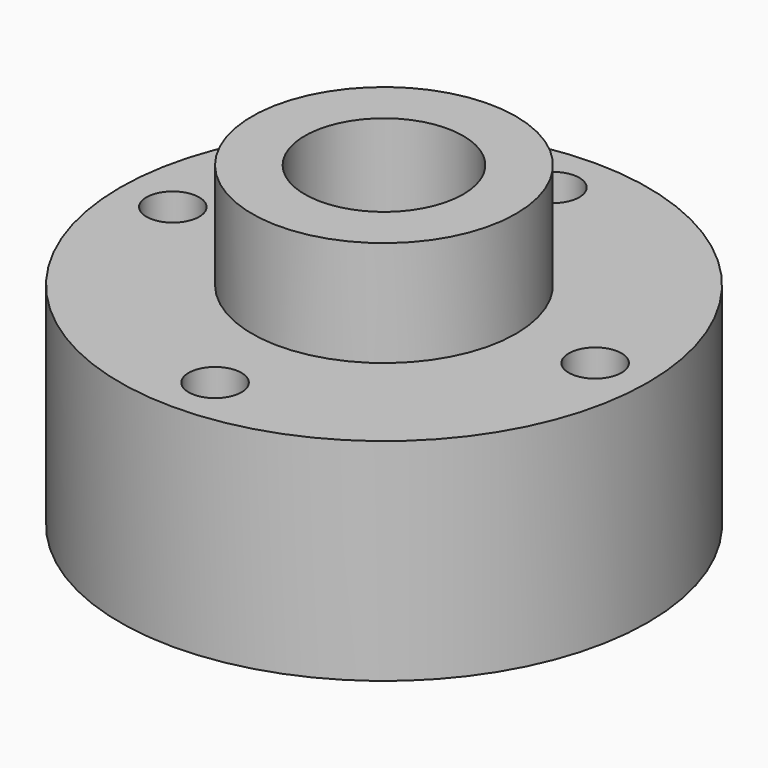
from build123d import *

# Parameters (mm, degrees)
F0_R     = 31.75
F1_DEPTH = 25.4
F2_R     = 15.875
F3_DEPTH = 12.7
F4_R     = 9.525
F5_DEPTH = 38.101
F6_R     = 3.175
F7_DEPTH = 25.401


with BuildPart() as f1:
    # F0 (on Top) → F1 (new body)
    with BuildSketch(Plane.XY):
        Circle(F0_R)
    extrude(amount=F1_DEPTH)

    # F2 (on face) → F3 (join)
    with BuildSketch(Plane.XY.offset(25.4)):
        Circle(F2_R)
    extrude(amount=F3_DEPTH)

    # F4 (on face) → F5 (cut, through all)
    with BuildSketch(Plane.XY.offset(38.1)):
        Circle(F4_R)
    extrude(amount=-F5_DEPTH, mode=Mode.SUBTRACT)

    # F6 (on face) → F7 (cut, through all)
    with BuildSketch(Plane.XY.offset(25.4)):
        with Locations((0, 25.4)):
            Circle(F6_R)
        with Locations((-25.4, 0)):
            Circle(F6_R)
        with Locations((0, -25.4)):
            Circle(F6_R)
        with Locations((25.4, 0)):
            Circle(F6_R)
    extrude(amount=-F7_DEPTH, mode=Mode.SUBTRACT)


solid = f1.part
